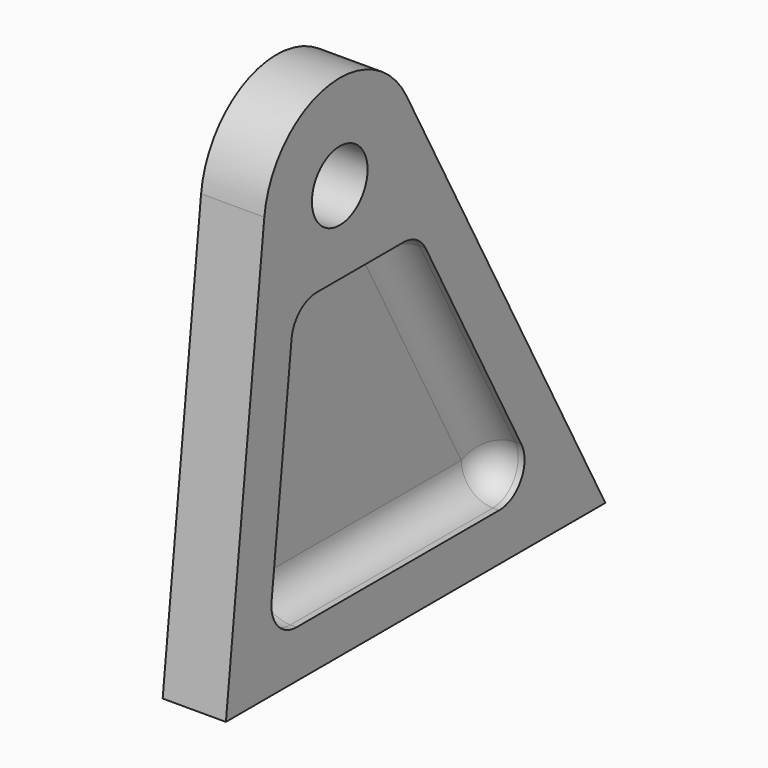
from build123d import *

# Parameters (mm, degrees)
F0_R     = 1.1
F1_DEPTH = 2
F3_DEPTH = 1.2
F4_R     = 1
F5_R     = 1


with BuildPart() as f1:
    # F0 (on Right) → F1 (new body)
    with BuildSketch(Plane.YZ):
        with BuildLine():
            Line((-4.5, 0), (10.5, 0))
            Line((10.5, 0), (2.638459, 14.527772))
            ThreePointArc((2.638459, 14.527772), (-0.571654, 16.045032), (-2.981013, 13.436989))
            Line((-2.981013, 13.436989), (-4.5, 0))
        make_face()
        with Locations((0, 13.1)):
            Circle(F0_R, mode=Mode.SUBTRACT)
    extrude(amount=F1_DEPTH)

    # F2 (on face) → F3 (cut)
    with BuildSketch(Plane.YZ.offset(2)):
        Polygon((-1.803471, 10.5), (-2.820878, 1.5), (7.982751, 1.5), (3.112502, 10.5), align=None)
    extrude(amount=-F3_DEPTH, mode=Mode.SUBTRACT)

    # F4
    f4_edges = [f1.edges().sort_by_distance(p)[0] for p in [
        (1.4, -1.803471, 10.5),
        (1.4, 3.112502, 10.5),
        (1.4, 7.982751, 1.5),
        (1.4, -2.820878, 1.5),
    ]]
    fillet(f4_edges, radius=F4_R)

    # F5
    f5_edges = [f1.edges().sort_by_distance(p)[0] for p in [
        (0.8, 2.30156, 1.5),
        (0.8, -2.447228, 1.83379),
        (0.8, 7.163632, 1.988104),
        (0.8, -2.299477, 6.11233),
        (0.8, 5.290085, 6.475924),
        (0.8, -1.576357, 10.245765),
        (0.8, 3.02851, 10.359047),
        (0.8, 0.803233, 10.5),
    ]]
    fillet(f5_edges, radius=F5_R)


solid = f1.part
